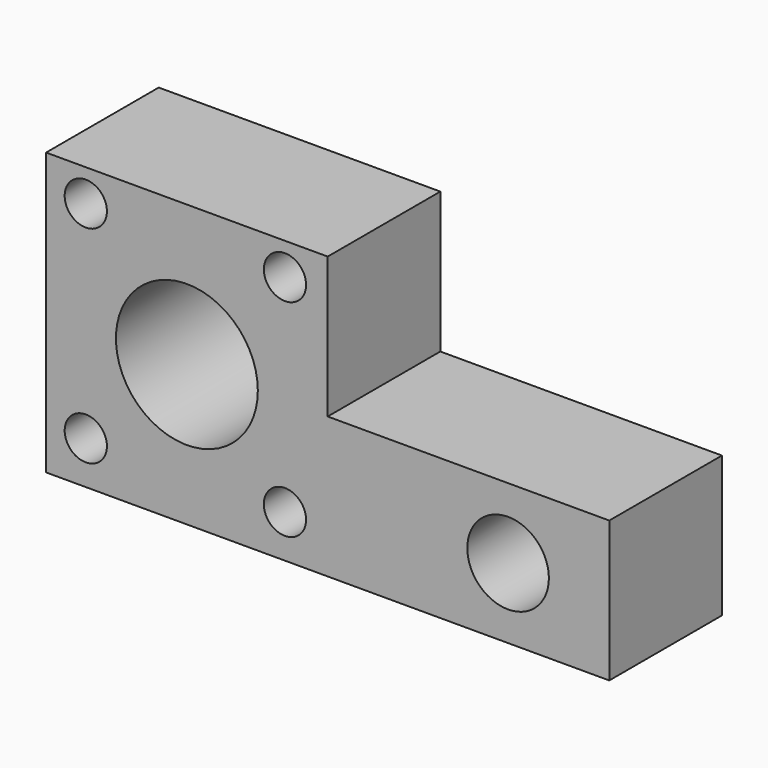
from build123d import *

# Parameters (mm, degrees)
F0_R     = 7.5
F0_R_2   = 14.48841
F0_R_3   = 25.195106
F1_DEPTH = 50


with BuildPart() as f1:
    # F0 (on Front) → F1 (new body)
    with BuildSketch(Plane.XZ):
        Polygon((0, 100), (0, 0), (200, 0), (200, 50), (100, 50), (100, 100), align=None)
        with Locations((14.101218, 15.220367)):
            Circle(F0_R, mode=Mode.SUBTRACT)
        with Locations((84.831156, 15.220367)):
            Circle(F0_R, mode=Mode.SUBTRACT)
        with Locations((164.066583, 25)):
            Circle(F0_R_2, mode=Mode.SUBTRACT)
        with Locations((50, 50)):
            Circle(F0_R_3, mode=Mode.SUBTRACT)
        with Locations((14.101218, 88.636249)):
            Circle(F0_R, mode=Mode.SUBTRACT)
        with Locations((84.831156, 88.636249)):
            Circle(F0_R, mode=Mode.SUBTRACT)
    extrude(amount=F1_DEPTH)


solid = f1.part
